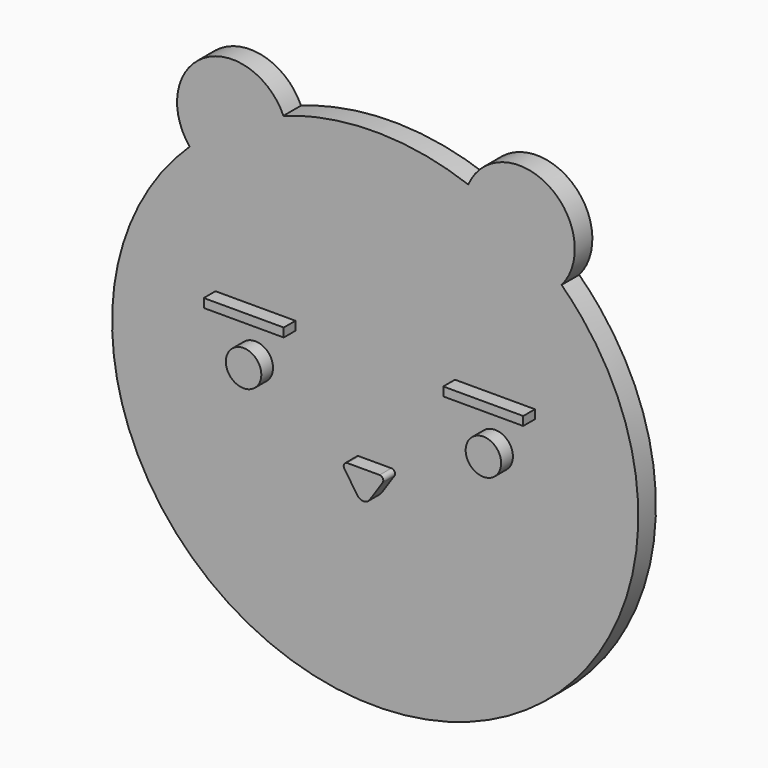
from build123d import *

# Parameters (mm, degrees)
F2_DEPTH = 3
F1_R     = 2.420193
F1_W     = 10.913275
F1_H     = 1.2
F3_DEPTH = 2


with BuildPart() as f2:
    # F0 (on Front) → F2 (new body)
    with BuildSketch(Plane.XZ):
        with BuildLine():
            add(Edge.make_bspline(
                [(-12.528065, 32.336928), (-19.812086, 29.730722), (-25.322453, 24.462908)],
                knots=[5.068804, 5.068804, 5.068804, 5.495167, 5.495167, 5.495167], degree=2, weights=[1, 0.977363, 1]))
            ThreePointArc((-12.528065, 32.336928), (-23.429949, 35.719527), (-25.322453, 24.462908))
        make_face()
        with BuildLine():
            add(Edge.make_bspline(
                [(0, 34.505472), (-6.467254, 34.505472), (-12.528065, 32.336928)],
                knots=[4.712389, 4.712389, 4.712389, 5.068804, 5.068804, 5.068804], degree=2, weights=[1, 0.984163, 1]))
            add(Edge.make_bspline(
                [(-12.528065, 32.336928), (-19.812086, 29.730722), (-25.322453, 24.462908)],
                knots=[5.068804, 5.068804, 5.068804, 5.495167, 5.495167, 5.495167], degree=2, weights=[1, 0.977363, 1]))
            add(Edge.make_bspline(
                [(-25.322453, 24.462908), (-86.820947, -34.328579), (-0.076157, -34.505394), (86.668633, -34.682208), (25.430209, 24.359457)],
                knots=[5.495167, 5.495167, 5.495167, 7.851861, 7.851861, 10.208555, 10.208555, 10.208555], degree=2, weights=[1, 0.382453, 1, 0.382453, 1]))
            add(Edge.make_bspline(
                [(25.430209, 24.359457), (19.952975, 29.64021), (12.695583, 32.276533)],
                knots=[3.925369, 3.925369, 3.925369, 4.350991, 4.350991, 4.350991], degree=2, weights=[1, 0.977441, 1]))
            add(Edge.make_bspline(
                [(12.695583, 32.276533), (6.559657, 34.505472), (0, 34.505472)],
                knots=[4.350991, 4.350991, 4.350991, 4.712389, 4.712389, 4.712389], degree=2, weights=[1, 0.983718, 1]))
        make_face()
        with BuildLine():
            add(Edge.make_bspline(
                [(25.430209, 24.359457), (19.952975, 29.64021), (12.695583, 32.276533)],
                knots=[3.925369, 3.925369, 3.925369, 4.350991, 4.350991, 4.350991], degree=2, weights=[1, 0.977441, 1]))
            ThreePointArc((25.430209, 24.359457), (23.653164, 35.701447), (12.695583, 32.276533))
        make_face()
    extrude(amount=-F2_DEPTH)

    # F1 (on Front) → F3 (join)
    with BuildSketch(Plane.XZ):
        with Locations((-16.363403, 1.586232)):
            Circle(F1_R)
        with Locations((-16.339531, 7.646182)):
            Rectangle(F1_W, F1_H)
        with Locations((16.339531, 7.646182)):
            Rectangle(F1_W, F1_H)
        with Locations((16.363403, 1.586232)):
            Circle(F1_R)
        with BuildLine():
            Line((2.194044, -5.212212), (0, -5.212212))
            Line((0, -5.212212), (-2.194044, -5.212212))
            ThreePointArc((-2.194044, -5.212212), (-2.642516, -5.481597), (-2.615351, -6.00405))
            Line((-2.615351, -6.00405), (-0.842614, -8.635357))
            ThreePointArc((-0.842614, -8.635357), (0, -9.08368), (0.842614, -8.635357))
            Line((0.842614, -8.635357), (2.615351, -6.00405))
            ThreePointArc((2.615351, -6.00405), (2.642516, -5.481597), (2.194044, -5.212212))
        make_face()
    extrude(amount=F3_DEPTH)


solid = f2.part
